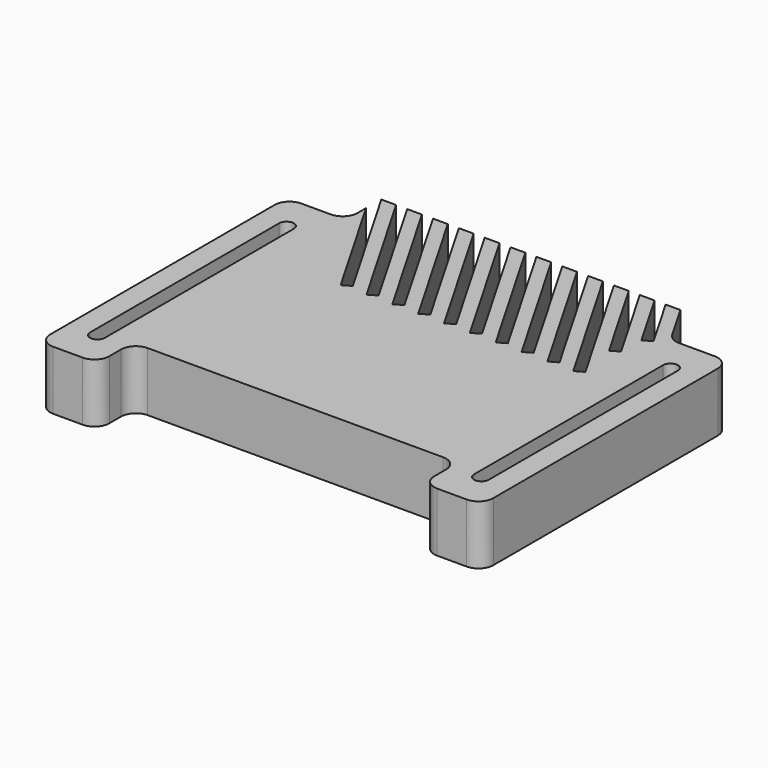
from build123d import *

# Parameters (mm, degrees)
F1_DEPTH = 25.4
F3_DEPTH = 25.401
F5_DEPTH = 25.401


with BuildPart() as f1:
    # F0 (on Top) → F1 (new body)
    with BuildSketch(Plane.XY):
        with BuildLine():
            Line((58.851477, 66.675), (0, 66.675))
            Line((0, 66.675), (-69.85, 66.675))
            Line((-69.85, 66.675), (-69.85, 53.975))
            ThreePointArc((-69.85, 53.975), (-71.709872, 49.484872), (-76.2, 47.625))
            Line((-76.2, 47.625), (-88.9, 47.625))
            ThreePointArc((-88.9, 47.625), (-93.390128, 45.765128), (-95.25, 41.275))
            Line((-95.25, 41.275), (-95.25, -79.375))
            ThreePointArc((-95.25, -79.375), (-93.390128, -83.865128), (-88.9, -85.725))
            Line((-88.9, -85.725), (-76.2, -85.725))
            ThreePointArc((-76.2, -85.725), (-71.709872, -83.865128), (-69.85, -79.375))
            Line((-69.85, -79.375), (-69.85, -73.025))
            ThreePointArc((-69.85, -73.025), (-67.990128, -68.534872), (-63.5, -66.675))
            Line((-63.5, -66.675), (0, -66.675))
            Line((0, -66.675), (63.5, -66.675))
            ThreePointArc((63.5, -66.675), (67.990128, -68.534872), (69.85, -73.025))
            Line((69.85, -73.025), (69.85, -79.375))
            ThreePointArc((69.85, -79.375), (71.709872, -83.865128), (76.2, -85.725))
            Line((76.2, -85.725), (88.9, -85.725))
            ThreePointArc((88.9, -85.725), (93.390128, -83.865128), (95.25, -79.375))
            Line((95.25, -79.375), (95.25, 41.275))
            ThreePointArc((95.25, 41.275), (93.390128, 45.765128), (88.9, 47.625))
            Line((88.9, 47.625), (73.516174, 47.625))
            ThreePointArc((73.516174, 47.625), (70.341174, 48.475739), (68.016913, 50.8))
            Line((68.016913, 50.8), (58.851477, 66.675))
        make_face()
        with BuildLine():
            ThreePointArc((-85.725, 31.75), (-82.55, 34.925), (-79.375, 31.75))
            Line((-79.375, 31.75), (-79.375, -69.85))
            ThreePointArc((-79.375, -69.85), (-82.55, -73.025), (-85.725, -69.85))
            Line((-85.725, -69.85), (-85.725, 31.75))
        make_face(mode=Mode.SUBTRACT)
        with BuildLine():
            Line((79.375, -69.85), (79.375, 31.75))
            ThreePointArc((79.375, 31.75), (82.55, 34.925), (85.725, 31.75))
            Line((85.725, 31.75), (85.725, -69.85))
            ThreePointArc((85.725, -69.85), (82.55, -73.025), (79.375, -69.85))
        make_face(mode=Mode.SUBTRACT)
    extrude(amount=F1_DEPTH)

    # F2 (on face) → F3 (cut, through all)
    with BuildSketch(Plane.XY.offset(25.4)):
        Polygon((65.975549, 43.337223), (52.501477, 66.675), (47.738977, 66.675), (62.403674, 41.275), align=None)
    extrude(amount=-F3_DEPTH, mode=Mode.SUBTRACT)

    # F4 (on face) → F5 (cut, through all)
    with BuildSketch(Plane.XY.offset(25.4)):
        Polygon((62.195398, 30.637223), (41.388977, 66.675), (36.626477, 66.675), (58.623523, 28.575), align=None)
        Polygon((62.08142, 11.587223), (30.276477, 66.675), (25.513977, 66.675), (58.509545, 9.525), align=None)
        Polygon((19.163977, 66.675), (14.401477, 66.675), (47.397045, 9.525), (50.96892, 11.587223), align=None)
        Polygon((8.051477, 66.675), (3.288977, 66.675), (36.284545, 9.525), (39.85642, 11.587223), align=None)
        Polygon((-3.061023, 66.675), (-7.823523, 66.675), (25.172045, 9.525), (28.74392, 11.587223), align=None)
        Polygon((-14.173523, 66.675), (-18.936023, 66.675), (14.059545, 9.525), (17.63142, 11.587223), align=None)
        Polygon((-25.286023, 66.675), (-30.048523, 66.675), (2.947045, 9.525), (6.51892, 11.587223), align=None)
        Polygon((-36.398523, 66.675), (-41.161023, 66.675), (-8.165455, 9.525), (-4.59358, 11.587223), align=None)
        Polygon((-47.511023, 66.675), (-52.273523, 66.675), (-19.277955, 9.525), (-15.70608, 11.587223), align=None)
        Polygon((-58.623523, 66.675), (-63.386023, 66.675), (-30.390455, 9.525), (-26.81858, 11.587223), align=None)
        Polygon((-69.736023, 66.675), (-74.498523, 66.675), (-41.502955, 9.525), (-37.93108, 11.587223), align=None)
    extrude(amount=-F5_DEPTH, mode=Mode.SUBTRACT)


solid = f1.part
